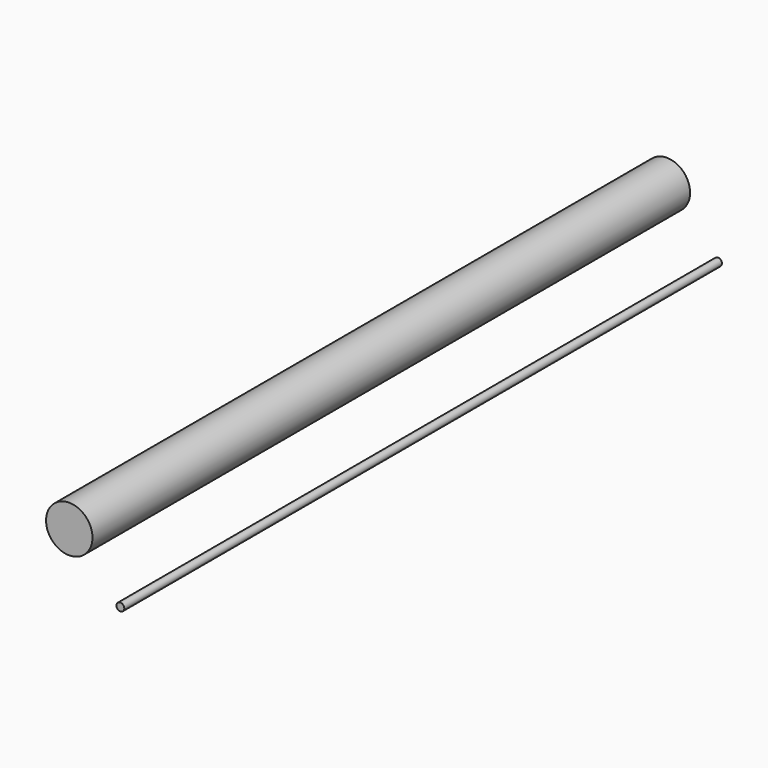
from build123d import *

# Parameters (mm, degrees)
F0_R     = 12.780493
F1_DEPTH = 2438.4
F2_R     = 75.740419
F3_DEPTH = 2438.4


with BuildPart() as f1:
    # F0 (on Front) → F1 (new body)
    with BuildSketch(Plane.XZ):
        with Locations((-132.185951, 0)):
            Circle(F0_R)
    extrude(amount=F1_DEPTH)


with BuildPart() as f3:
    # F2 (on Front) → F3 (new body)
    with BuildSketch(Plane.XZ):
        with Locations((-299.037635, 169.55623)):
            Circle(F2_R)
    extrude(amount=F3_DEPTH)


solid = Compound([f1.part, f3.part])
